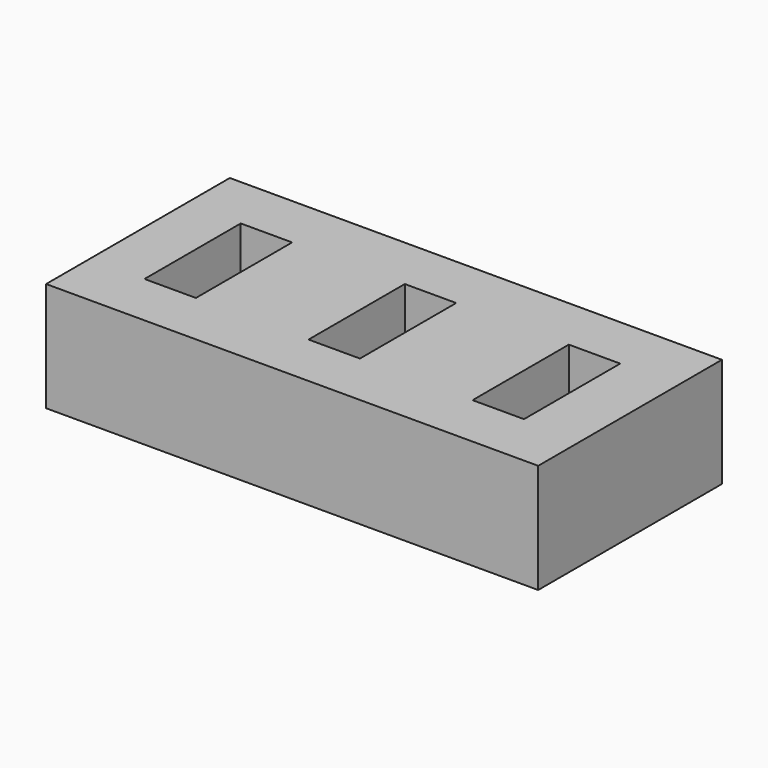
from build123d import *

# Parameters (mm, degrees)
BOX001_W     = 4.7
BOX001_H     = 11
BOX001_DEPTH = 12
BOX002_W     = 4.7
BOX002_H     = 11
BOX002_DEPTH = 12
BOX_W        = 4.7
BOX_H        = 11
BOX_DEPTH    = 12
BOX003_W     = 45
BOX003_H     = 21
BOX003_DEPTH = 10


with BuildPart() as ranura2:
    # Box001 → Box001 (new body)
    with BuildSketch(Plane(origin=(15, 0, 0), x_dir=(1, 0, 0), z_dir=(0, 0, 1))):
        with Locations((2.35, 5.5)):
            Rectangle(BOX001_W, BOX001_H)
    extrude(amount=BOX001_DEPTH)


with BuildPart() as ranura3:
    # Box002 → Box002 (new body)
    with BuildSketch(Plane(origin=(30, 0, 0), x_dir=(1, 0, 0), z_dir=(0, 0, 1))):
        with Locations((2.35, 5.5)):
            Rectangle(BOX002_W, BOX002_H)
    extrude(amount=BOX002_DEPTH)


with BuildPart() as ranuras:
    # Box → Box (new body)
    with BuildSketch(Plane.XY):
        with Locations((2.35, 5.5)):
            Rectangle(BOX_W, BOX_H)
    extrude(amount=BOX_DEPTH)

    # Fusion: union ranura2, ranura3
    add(ranura2.part)
    add(ranura3.part)


with BuildPart() as ranuras_1:
    # Fusion placement: moved
    add(ranuras.part.moved(Location((5, 5, 2))))


with BuildPart() as cut:
    # Box003 → Box003 (new body)
    with BuildSketch(Plane.XY):
        with Locations((22.5, 10.5)):
            Rectangle(BOX003_W, BOX003_H)
    extrude(amount=BOX003_DEPTH)

    # Cut: cut ranuras
    add(ranuras_1.part, mode=Mode.SUBTRACT)


solid = cut.part
